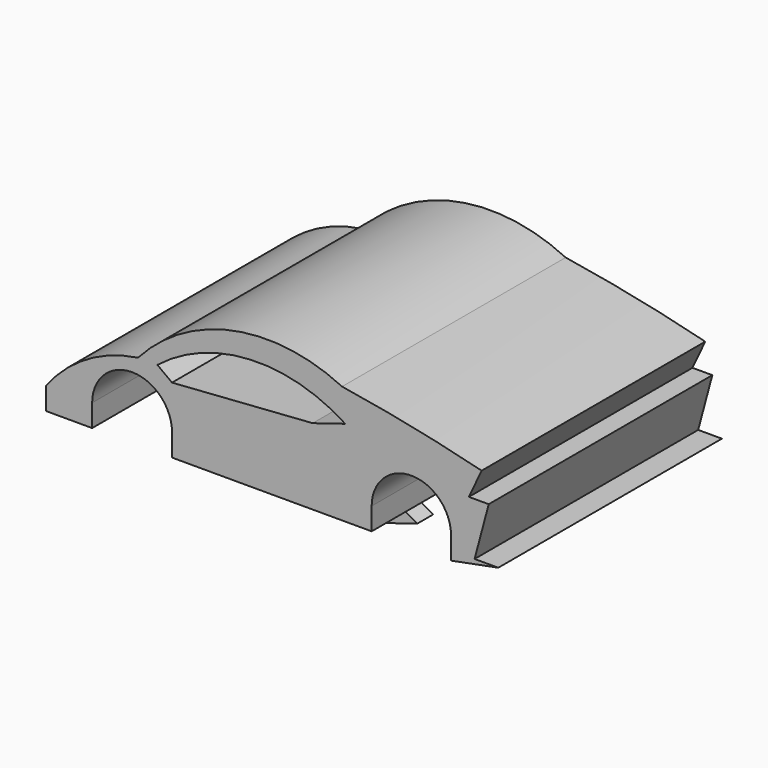
from build123d import *

# Parameters (mm, degrees)
F1_DEPTH = 88.9
F3_DEPTH = 6.35


with BuildPart() as f1:
    # F0 (on Front) → F1 (new body)
    with BuildSketch(Plane.XZ):
        with BuildLine():
            Line((-59.276514, 0), (-44.621789, 0))
            Line((-44.621789, 0), (-44.621789, 7.096321))
            ThreePointArc((-44.621789, 7.096321), (-31.921789, 19.796321), (-19.221789, 7.096321))
            Line((-19.221789, 7.096321), (-19.221789, 0))
            Line((-19.221789, 0), (44.278211, 0))
            Line((44.278211, 0), (44.278211, 7.096321))
            ThreePointArc((44.278211, 7.096321), (57.539896, 19.707353), (69.468394, 5.828543))
            Line((69.468394, 5.828543), (69.468394, 0))
            Line((69.468394, 0), (84.562103, 2.914272))
            Line((84.562103, 2.914272), (77.015249, 2.914272))
            Line((77.015249, 2.914272), (81.507926, 19.707353))
            Line((81.507926, 19.707353), (75.196942, 19.707353))
            Line((75.196942, 19.707353), (79.261587, 28.374125))
            ThreePointArc((79.261587, 28.374125), (57.170737, 33.448537), (34.865929, 37.479769))
            ThreePointArc((34.865929, 37.479769), (0.224474, 41.880093), (-30.036977, 24.454884))
            ThreePointArc((-30.036977, 24.454884), (-46.377732, 18.674509), (-59.276514, 7.096321))
            Line((-59.276514, 7.096321), (-54.491863, 3.54816))
            Line((-54.491863, 3.54816), (-59.276514, 0))
        make_face()
        with BuildLine():
            Line((-19.221789, 20.999303), (-23.875274, 24.454884))
            ThreePointArc((-23.875274, 24.454884), (5.534135, 35.536499), (35.884887, 27.378837))
            Line((35.884887, 27.378837), (25.51814, 24.18907))
            Line((25.51814, 24.18907), (-19.221789, 20.999303))
        make_face(mode=Mode.SUBTRACT)
        Polygon((-59.276514, 7.096321), (-59.276514, 0), (-54.491863, 3.54816), align=None)
    extrude(amount=F1_DEPTH)


with BuildPart() as f3:
    # F2 (on Front) → F3 (new body)
    with BuildSketch(Plane.XZ):
        with BuildLine():
            ThreePointArc((-7.275198, -48.176653), (-37.625949, -40.018991), (-67.035359, -51.100606))
            Line((-67.035359, -51.100606), (-62.381874, -54.556187))
            Line((-62.381874, -54.556187), (-17.641945, -51.36642))
            Line((-17.641945, -51.36642), (-7.275198, -48.176653))
        make_face()
    extrude(amount=F3_DEPTH)


solid = Compound([f1.part, f3.part])
